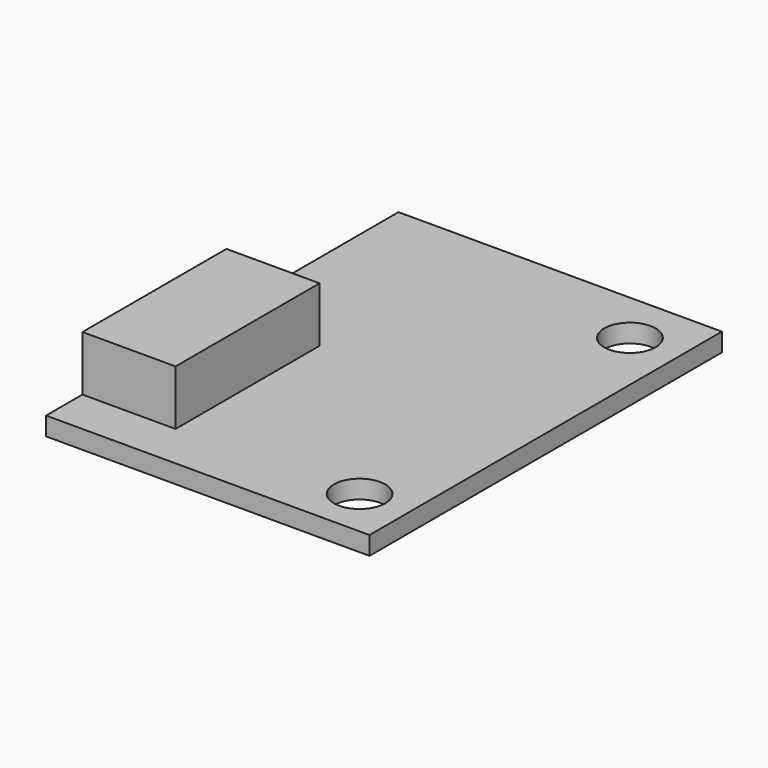
from build123d import *

# Parameters (mm, degrees)
F0_W     = 17.62
F0_H     = 24
F2_DEPTH = 1
F1_R     = 1.4
F3_DEPTH = 3
F4_W     = 5.072871
F4_H     = 9.807147
F5_DEPTH = 3


with BuildPart() as f2:
    # F0 (on Top) → F2 (new body)
    with BuildSketch(Plane.XY):
        with Locations((8.81, 12)):
            Rectangle(F0_W, F0_H)
    extrude(amount=F2_DEPTH)

    # F1 (on face) → F3 (cut)
    with BuildSketch(Plane.XY):
        with Locations((14.92, 2.7)):
            Circle(F1_R)
        with Locations((14.92, 21.11)):
            Circle(F1_R)
    extrude(amount=F3_DEPTH, mode=Mode.SUBTRACT)

    # F4 (on face) → F5 (join)
    with BuildSketch(Plane.XY.offset(1)):
        with Locations((2.536436, 7.37925)):
            Rectangle(F4_W, F4_H)
    extrude(amount=F5_DEPTH)


solid = f2.part
